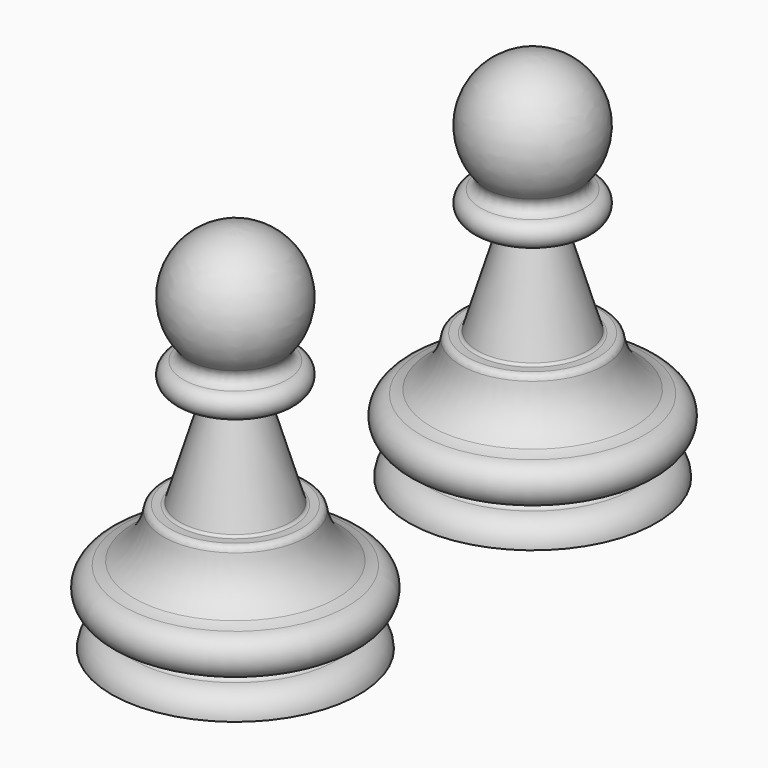
from build123d import *

# Parameters (mm, degrees)
F2_R = 1.5
F3_R = 1
F4_R = 0.5
F5_R = 5


with BuildPart() as f1:
    # F0 (on Front) → F1 (revolve)
    with BuildSketch(Plane.XZ):
        with BuildLine():
            ThreePointArc((0, -0.5), (-2.236068, -0.246794), (-4.358899, 0.5))
            Line((-4.358899, 0.5), (-8, 0.5))
            ThreePointArc((-8, 0.5), (-10, -1.5), (-8, -3.5))
            Line((-8, -3.5), (-4, -3.5))
            Line((-4, -3.5), (0, -3.5))
            Line((0, -3.5), (0, -0.5))
        make_face()
        with BuildLine():
            Line((0, -40.5), (0, -3.5))
            Line((0, -3.5), (-4, -3.5))
            Line((-4, -3.5), (-9, -20))
            Line((-9, -20), (-11.5, -20))
            ThreePointArc((-11.5, -20), (-13.286137, -25.140864), (-17.5, -28.585007))
            ThreePointArc((-17.5, -28.585007), (-20.707496, -31.792504), (-17.5, -35))
            Line((-17.5, -35), (-16.5, -35))
            ThreePointArc((-16.5, -35), (-15.625, -35.875), (-16.5, -36.75))
            ThreePointArc((-16.5, -36.75), (-18.928844, -37.991413), (-20, -40.5))
            Line((-20, -40.5), (0, -40.5))
        make_face()
        with BuildLine():
            Line((0, 0.5), (0, 19.5))
            ThreePointArc((0, 19.5), (-9.746794, 11.736068), (-4.358899, 0.5))
            Line((-4.358899, 0.5), (0, 0.5))
        make_face()
        with BuildLine():
            Line((0, 0.5), (-4.358899, 0.5))
            ThreePointArc((-4.358899, 0.5), (-2.236068, -0.246794), (0, -0.5))
            Line((0, -0.5), (0, 0.5))
        make_face()
    revolve(axis=Axis((0, 0, -19.3203), (0, 0, -1)))

    # F2
    f2_edges = [f1.edges().sort_by_distance(p)[0] for p in [
        (4.358899, 0, 0.5),
    ]]
    fillet(f2_edges, radius=F2_R)

    # F3
    f3_edges = [f1.edges().sort_by_distance(p)[0] for p in [
        (11.5, 0, -20),
    ]]
    fillet(f3_edges, radius=F3_R)

    # F4
    f4_edges = [f1.edges().sort_by_distance(p)[0] for p in [
        (9, 0, -20),
    ]]
    fillet(f4_edges, radius=F4_R)

    # F5
    f5_edges = [f1.edges().sort_by_distance(p)[0] for p in [
        (17.5, 0, -28.585007),
        (17.5, 0, -35),
        (16.5, 0, -35),
    ]]
    fillet(f5_edges, radius=F5_R)


with BuildPart() as f7_1:
    # F7: instance of F1
    add(f1.part.mirror(Plane.XZ.offset(30)))


solid = Compound([f1.part, f7_1.part])
